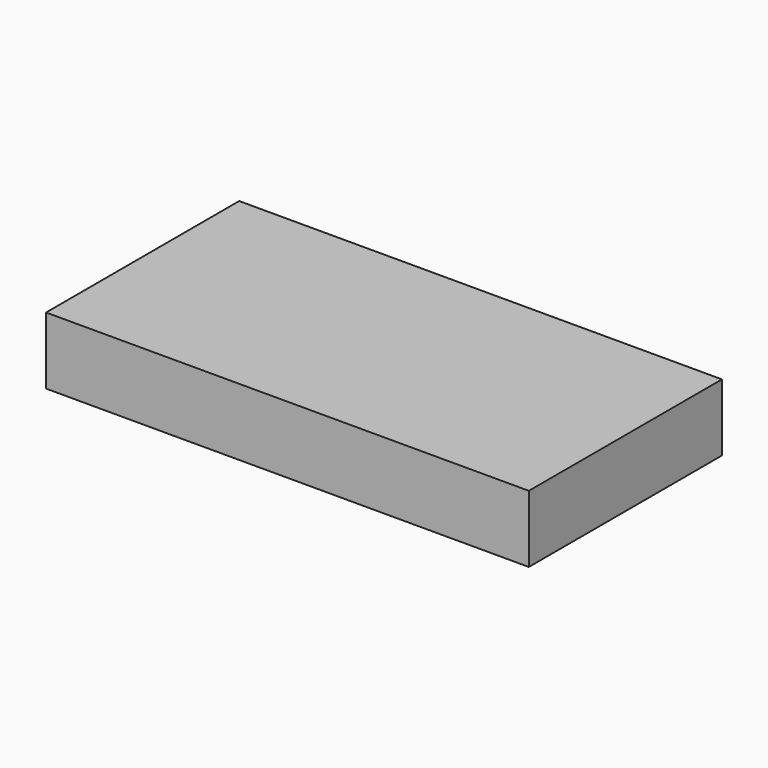
from build123d import *

# Parameters (mm, degrees)
BOX_W     = 228.6
BOX_H     = 114.3
BOX_DEPTH = 31.75


with BuildPart() as part:
    # Box → Box (new body)
    with BuildSketch(Plane.XY):
        with Locations((114.3, 57.15)):
            Rectangle(BOX_W, BOX_H)
    extrude(amount=BOX_DEPTH)


solid = part.part
